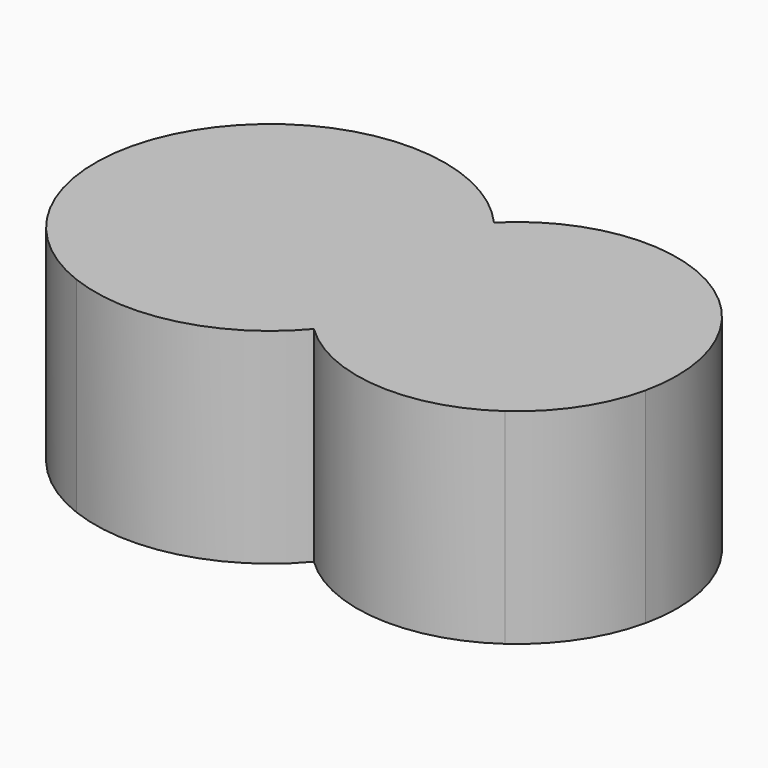
from build123d import *

# Parameters (mm, degrees)
F1_DEPTH = 25.4


with BuildPart() as f1:
    # F0 (on Top) → F1 (new body)
    with BuildSketch(Plane.XY):
        with BuildLine():
            Line((24.443999, 9.764512), (32.35041, 21.669716))
            ThreePointArc((32.35041, 21.669716), (22.499546, 43.363489), (-1.08105, 39.955447))
            ThreePointArc((-1.08105, 39.955447), (-25.805681, 45.592397), (-38.979422, 23.923639))
            Line((-38.979422, 23.923639), (-25.198337, 5.393257))
            ThreePointArc((-25.198337, 5.393257), (-11.978415, 4.602569), (-0.762963, 11.645662))
            ThreePointArc((-0.762963, 11.645662), (11.502175, 6.171376), (24.443999, 9.764512))
        make_face()
        with BuildLine():
            ThreePointArc((24.443999, 9.764512), (29.506368, 14.980504), (32.35041, 21.669716))
            Line((32.35041, 21.669716), (24.443999, 9.764512))
        make_face()
        with BuildLine():
            Line((-25.198337, 5.393257), (-38.979422, 23.923639))
            ThreePointArc((-38.979422, 23.923639), (-34.759944, 12.671971), (-25.198337, 5.393257))
        make_face()
    extrude(amount=F1_DEPTH)


solid = f1.part
